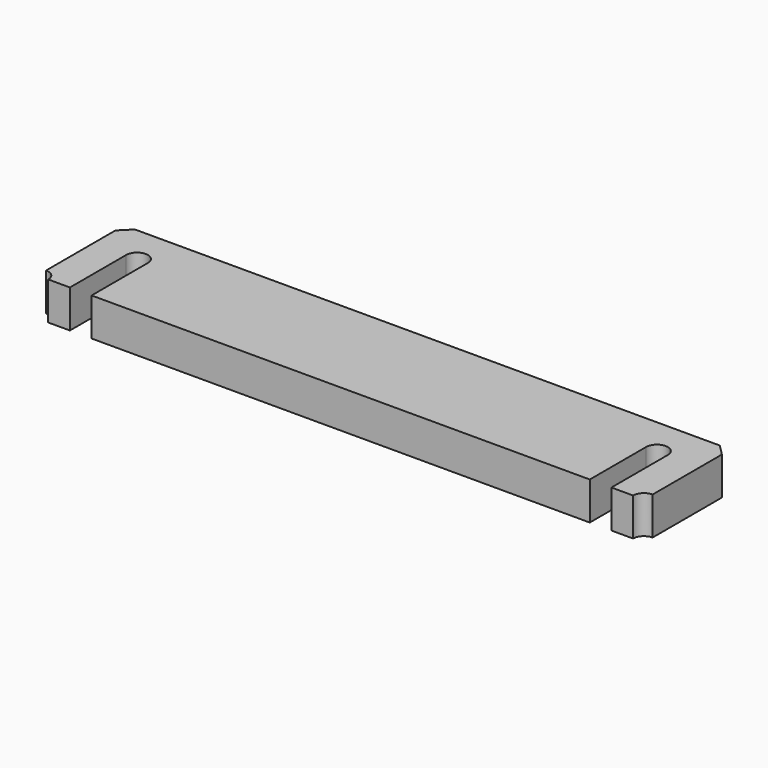
from build123d import *

# Parameters (mm, degrees)
F1_DEPTH = 44.45
F2_SIZE  = 12.7


with BuildPart() as f1:
    # F0 (on Top) → F1 (new body)
    with BuildSketch(Plane.XY):
        with BuildLine():
            ThreePointArc((38.1, 82.55), (50.8, 95.25), (63.5, 82.55))
            Line((63.5, 82.55), (63.5, 0))
            Line((63.5, 0), (105.023582, 0))
            Line((105.023582, 0), (355.6, 0))
            Line((355.6, 0), (606.176418, 0))
            Line((606.176418, 0), (647.7, 0))
            Line((647.7, 0), (647.7, 82.55))
            ThreePointArc((647.7, 82.55), (660.4, 95.25), (673.1, 82.55))
            Line((673.1, 82.55), (673.1, 0))
            Line((673.1, 0), (698.5, 0))
            ThreePointArc((698.5, 0), (702.219744, 8.980256), (711.2, 12.7))
            Line((711.2, 12.7), (711.2, 114.3))
            Line((711.2, 114.3), (685.8, 139.7))
            Line((685.8, 139.7), (355.6, 139.7))
            Line((355.6, 139.7), (25.4, 139.7))
            Line((25.4, 139.7), (0, 114.3))
            Line((0, 114.3), (0, 12.7))
            ThreePointArc((0, 12.7), (8.980256, 8.980256), (12.7, 0))
            Line((12.7, 0), (38.1, 0))
            Line((38.1, 0), (38.1, 82.55))
        make_face()
    extrude(amount=F1_DEPTH)

    # F2
    f2_edges = [f1.edges().sort_by_distance(p)[0] for p in [
        (355.6, 139.7, 44.45),
        (355.6, 139.7, 0),
    ]]
    chamfer(f2_edges, length=F2_SIZE)


solid = f1.part
